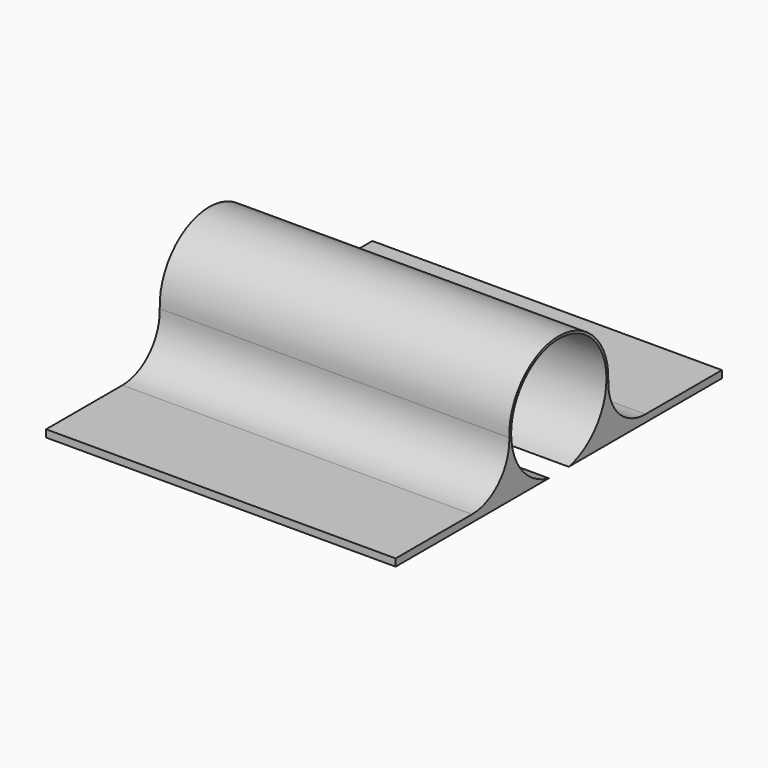
from build123d import *

# Parameters (mm, degrees)
F1_DEPTH = 38.1
F3_DEPTH = 38.101
F4_R     = 5.08
F5_DEPTH = 38.101


with BuildPart() as f1:
    # F0 (on Right) → F1 (new body)
    with BuildSketch(Plane.YZ):
        with BuildLine():
            Line((-22.225, 0.79375), (-22.225, 0))
            Line((-22.225, 0), (0, 0))
            Line((0, 0), (22.225, 0))
            Line((22.225, 0), (22.225, 0.79375))
            Line((22.225, 0.79375), (3.827324, 0.79375))
            ThreePointArc((3.827324, 0.79375), (0, 13.096875), (-3.827324, 0.79375))
            Line((-3.827324, 0.79375), (-22.225, 0.79375))
        make_face()
    extrude(amount=F1_DEPTH)

    # F2 (on face) → F3 (cut, through all)
    with BuildSketch(Plane.YZ.offset(38.1)):
        with BuildLine():
            Line((-1.354594, 0), (1.354594, 0))
            ThreePointArc((1.354594, 0), (0, 12.842875), (-1.354594, 0))
        make_face()
    extrude(amount=-F3_DEPTH, mode=Mode.SUBTRACT)

    # F4
    f4_edges = [f1.edges().sort_by_distance(p)[0] for p in [
        (19.05, -3.827324, 0.79375),
        (19.05, 3.827324, 0.79375),
    ]]
    fillet(f4_edges, radius=F4_R)

    # F2 (on face) → F5 (cut, through all)
    with BuildSketch(Plane.YZ.offset(38.1)):
        with BuildLine():
            Line((-1.354594, 0), (1.354594, 0))
            ThreePointArc((1.354594, 0), (0, 12.842875), (-1.354594, 0))
        make_face()
    extrude(amount=-F5_DEPTH, mode=Mode.SUBTRACT)


solid = f1.part
